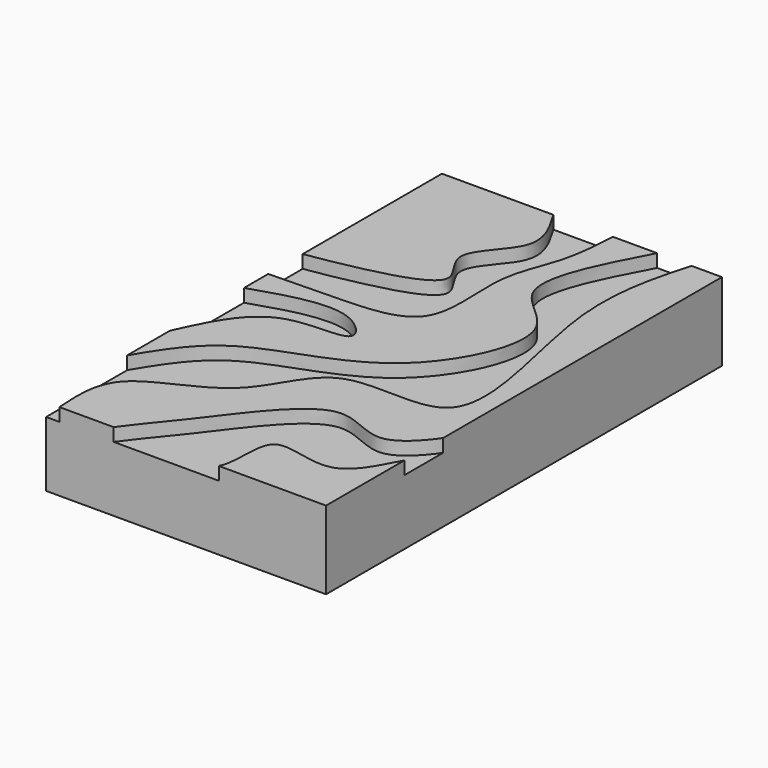
from build123d import *

# Parameters (mm, degrees)
F0_W     = 43
F0_H     = 76
F1_DEPTH = 12
F3_DEPTH = 2


with BuildPart() as f1:
    # F0 (on Top) → F1 (new body)
    with BuildSketch(Plane.XY):
        Rectangle(F0_W, F0_H)
    extrude(amount=F1_DEPTH)

    # F2 (on face) → F3 (cut)
    with BuildSketch(Plane.XY.offset(12)):
        with BuildLine():
            Line((4.7746575437, 38), (-4.3926844373, 38))
            add(Edge.make_bspline(
                [(-4.3926844373, 38), (-2.7416285758, 35.2730114578), (0.5789022653, 29.7886121903), (-9.2507842793, 22.9595849325), (-0.5884437054, 16.1838751695), (-13.6323619682, 12.519773754), (-18.919098347, 11.6787598735), (-21.5, 11.2681901082)],
                knots=[0, 0, 0, 0, 0.2015988832, 0.405446796, 0.5751877442, 0.7926133299, 1, 1, 1, 1], degree=3))
            Line((-21.5, 11.2681901082), (-21.5, 4.6473322436))
            add(Edge.make_bspline(
                [(-21.5, 4.6473322436), (-18.0258483584, 4.7122175176), (-11.092404907, 4.8417105346), (3.1045902573, 5.4092291407), (-0.1124820219, 21.1708345648), (4.1858073519, 29.0120048557), (4.5797914835, 35.0256353356), (4.7746575437, 38)],
                knots=[0, 0, 0, 0, 0.2051252903, 0.4093732075, 0.6305702883, 0.8172786499, 1, 1, 1, 1], degree=3))
        make_face()
        with BuildLine():
            Line((16.8325267732, 38), (11.5458704531, 38))
            add(Edge.make_bspline(
                [(11.5458704531, 38), (8.0895907159, 31.4896310539), (2.0316983504, 20.0787739084), (16.7418157626, 14.4779990505), (6.8588217332, -7.3706452333), (-14.2151662266, -10.3638023014), (-19.2587250618, -18.7185143522), (-21.5, -22.4312115461)],
                knots=[0, 0, 0, 0, 0.2131526418, 0.373597006, 0.5901102852, 0.8178517243, 1, 1, 1, 1], degree=3))
            Line((-21.5, -22.4312115461), (-21.5, -38))
            Line((-21.5, -38), (-19.4613244385, -38))
            add(Edge.make_bspline(
                [(-19.4613244385, -38), (-19.6993250806, -34.3313325748), (-20.2203693972, -26.2996806693), (-3.6770222481, -22.8968072109), (-0.3447766381, -7.1340531711), (24.7456998219, -14.9463940154), (11.8384738268, 20.157446284), (15.2630808527, 32.3927460439), (16.8325267732, 38)],
                knots=[0, 0, 0, 0, 0.1312936233, 0.2874353429, 0.4365831783, 0.5973891161, 0.815489484, 1, 1, 1, 1], degree=3))
        make_face()
        with BuildLine():
            add(Edge.make_bspline(
                [(-21.5, 0), (-16.2318955614, 1.7025315027), (-7.8430099282, 4.4136284883), (-0.7666988609, -3.6105474344), (-15.4471970012, -0.9930144481), (-19.3547365121, -9.5342326001), (-21.5, -14.2234144732)],
                knots=[0, 0, 0, 0, 0.2962787766, 0.4717918563, 0.7100104448, 1, 1, 1, 1], degree=3))
            Line((-21.5, 0), (-21.5, -14.2234144732))
        make_face()
        with BuildLine():
            add(Edge.make_bspline(
                [(-11.1252805218, -38), (-9.2217871314, -35.3347510331), (-4.53785595, -30.1098850071), (6.5952426749, -14.1194046925), (15.8177592382, -23.0311850077), (20.7254704594, -16.7193983978), (21.5, -15.5058838427)],
                knots=[0, 0, 0, 0, 0.2554506979, 0.5658843456, 0.7928473981, 1, 1, 1, 1], degree=3))
            Line((-11.1252805218, -38), (5.0338190049, -38))
            add(Edge.make_bspline(
                [(5.0338190049, -38), (6.1769908594, -35.6645769777), (3.9490563868, -25.654834058), (17.423412312, -33.2865635661), (20.5799096489, -24.3707650438), (21.5, -22.9441989213)],
                knots=[0, 0, 0, 0, 0.3288944155, 0.670590937, 1, 1, 1, 1], degree=3))
            Line((21.5, -22.9441989213), (21.5, -15.5058838427))
        make_face()
    extrude(amount=-F3_DEPTH, mode=Mode.SUBTRACT)


solid = f1.part
